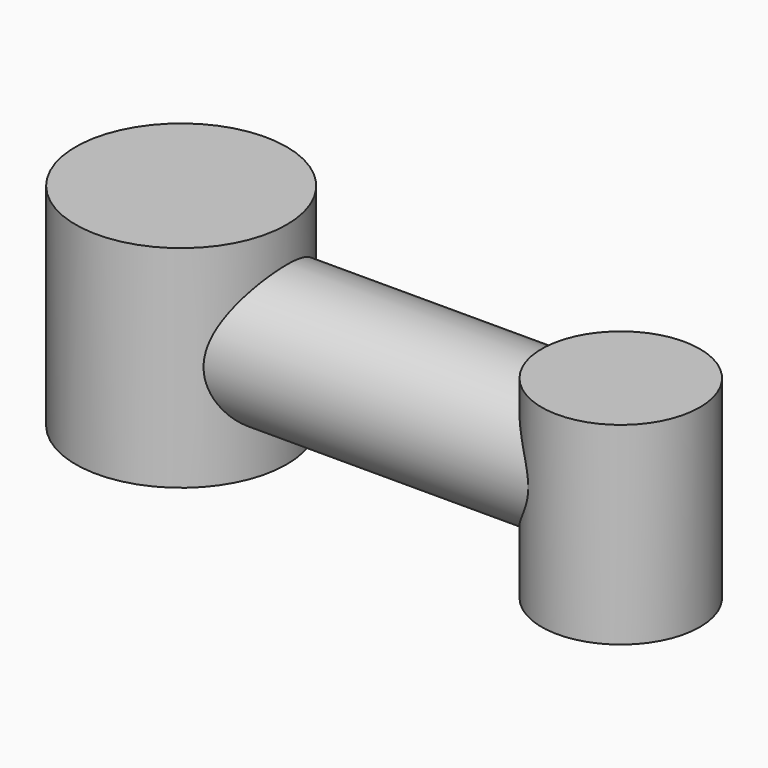
from build123d import *

# Parameters (mm, degrees)
SKETCH_W     = 250
SKETCH_H     = 10
SKETCH001_R  = 60
PAD_DEPTH    = 60
SKETCH002_R  = 45
PAD001_DEPTH = 45
SKETCH003_R  = 45
PAD002_DEPTH = 20


with BuildPart() as part:
    # Sketch → Revolution (revolve)
    with BuildSketch(Plane.XY):
        with Locations((125, 35)):
            Rectangle(SKETCH_W, SKETCH_H)
    revolve(axis=Axis((0, 0, 0), (1, 0, 0)))

    # Sketch001 → Pad (new body, symmetric)
    with BuildSketch(Plane.XY):
        Circle(SKETCH001_R)
    extrude(amount=PAD_DEPTH, both=True)

    # Sketch002 → Pad001 (join, symmetric)
    with BuildSketch(Plane.XY):
        with Locations((250, 0)):
            Circle(SKETCH002_R)
    extrude(amount=PAD001_DEPTH, both=True)

    # Sketch003 (on Face6 of Pad001) → Pad002 (join)
    with BuildSketch(Plane(origin=(0, 0, -45), x_dir=(1, 0, 0), z_dir=(0, 0, -1))):
        with Locations((250, 0)):
            Circle(SKETCH003_R)
    extrude(amount=PAD002_DEPTH)


solid = part.part
